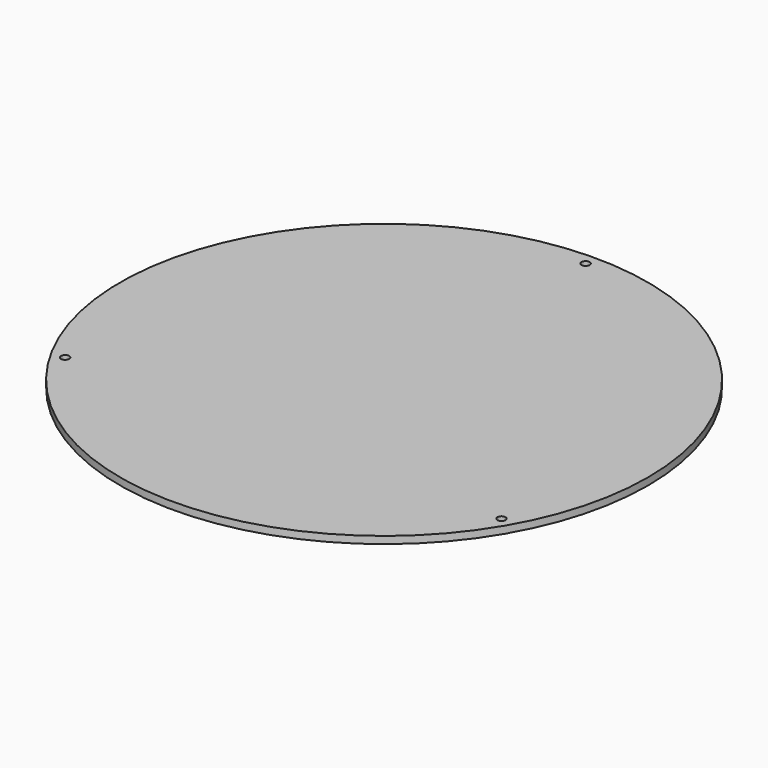
from build123d import *

# Parameters (mm, degrees)
F0_R     = 110
F0_R_2   = 1.7
F1_DEPTH = 3


with BuildPart() as f1:
    # F0 (on Top) → F1 (new body)
    with BuildSketch(Plane.XY):
        Circle(F0_R)
        with Locations((-90.932667, -52.5)):
            Circle(F0_R_2, mode=Mode.SUBTRACT)
        with Locations((90.932667, -52.5)):
            Circle(F0_R_2, mode=Mode.SUBTRACT)
        with Locations((0, 105)):
            Circle(F0_R_2, mode=Mode.SUBTRACT)
    extrude(amount=F1_DEPTH)


solid = f1.part
